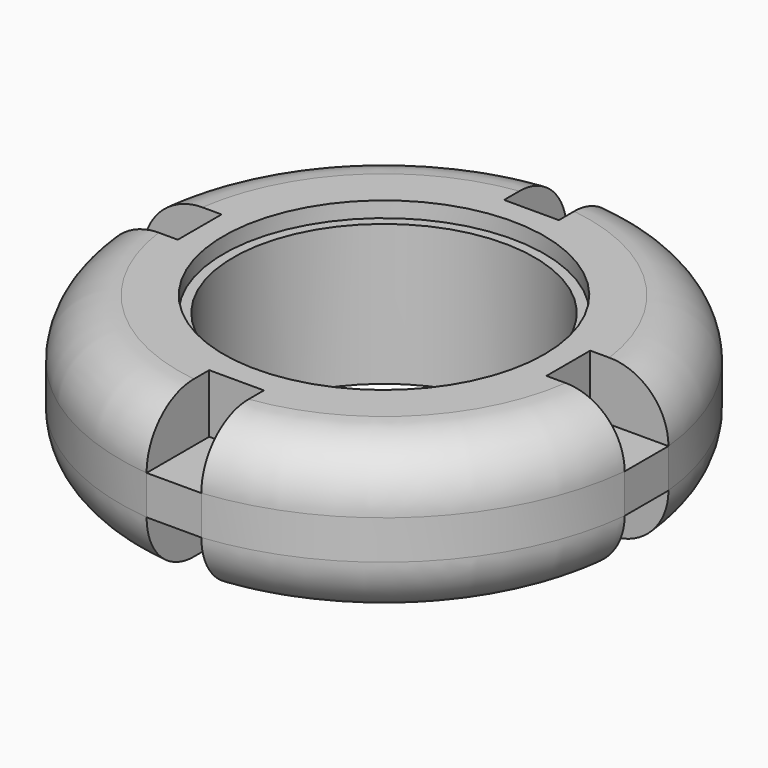
from build123d import *

# Parameters (mm, degrees)
F0_R      = 52.07
F1_DEPTH  = 50.8
F2_R      = 19.05
F5_W      = 25.4
F5_H      = 12.7
F7_DEPTH  = 17.78
F6_W      = 25.4
F6_H      = 12.7
F8_DEPTH  = 17.78
F4_W      = 25.4
F4_H      = 12.7
F9_DEPTH  = 17.78
F3_W      = 25.4
F3_H      = 12.7
F10_DEPTH = 17.78
F0_R_2    = 48.895
F11_DEPTH = 45.72


with BuildPart() as f1:
    # F0 (on Top) → F1 (new body)
    with BuildSketch(Plane.XY):
        with BuildLine():
            Line((59.8627909759, 8.89), (85.2627909759, 8.89))
            ThreePointArc((85.2627909759, 8.89), (60.6167288172, 60.6167288172), (8.89, 85.2627909759))
            Line((8.89, 85.2627909759), (8.89, 59.8627909759))
            Line((8.89, 59.8627909759), (-8.89, 59.8627909759))
            Line((-8.89, 59.8627909759), (-8.89, 85.2627909759))
            ThreePointArc((-8.89, 85.2627909759), (-60.6167288172, 60.6167288172), (-85.2627909759, 8.89))
            Line((-85.2627909759, 8.89), (-59.8627909759, 8.89))
            Line((-59.8627909759, 8.89), (-59.8627909759, -8.89))
            Line((-59.8627909759, -8.89), (-85.2627909759, -8.89))
            ThreePointArc((-85.2627909759, -8.89), (-60.6167288172, -60.6167288172), (-8.89, -85.2627909759))
            Line((-8.89, -85.2627909759), (-8.89, -59.8627909759))
            Line((-8.89, -59.8627909759), (8.89, -59.8627909759))
            Line((8.89, -59.8627909759), (8.89, -85.2627909759))
            ThreePointArc((8.89, -85.2627909759), (60.6167288172, -60.6167288172), (85.2627909759, -8.89))
            Line((85.2627909759, -8.89), (59.8627909759, -8.89))
            Line((59.8627909759, -8.89), (59.8627909759, 8.89))
        make_face()
        Circle(F0_R, mode=Mode.SUBTRACT)
    extrude(amount=F1_DEPTH)

    # F2
    f2_edges = [f1.edges().sort_by_distance(p)[0] for p in [
        (-60.616729, -60.616729, 50.8),
        (60.616729, -60.616729, 50.8),
        (60.616729, 60.616729, 50.8),
        (-60.616729, 60.616729, 50.8),
        (60.616729, -60.616729, 0),
        (60.616729, 60.616729, 0),
        (-60.616729, -60.616729, 0),
        (-60.616729, 60.616729, 0),
    ]]
    fillet(f2_edges, radius=F2_R)

    # F5 (on face) → F7 (join)
    with BuildSketch(Plane(origin=(0, -8.89, 0), x_dir=(-1, 0, 0), z_dir=(0, 1, 0))):
        with Locations((-72.5627909759, 25.4)):
            Rectangle(F5_W, F5_H)
    extrude(amount=F7_DEPTH)

    # F6 (on face) → F8 (join)
    with BuildSketch(Plane(origin=(8.89, 0, 0), x_dir=(0, -1, 0), z_dir=(-1, 0, 0))):
        with Locations((-72.5627909759, 25.4)):
            Rectangle(F6_W, F6_H)
    extrude(amount=F8_DEPTH)

    # F4 (on face) → F9 (join)
    with BuildSketch(Plane.XZ.offset(-8.89)):
        with Locations((-72.5627909759, 25.4)):
            Rectangle(F4_W, F4_H)
    extrude(amount=F9_DEPTH)

    # F3 (on face) → F10 (join)
    with BuildSketch(Plane.YZ.offset(-8.89)):
        with Locations((-72.5627909759, 25.4)):
            Rectangle(F3_W, F3_H)
    extrude(amount=F10_DEPTH)

    # F0 (on Top) → F11 (join)
    with BuildSketch(Plane.XY):
        Circle(F0_R)
        Circle(F0_R_2, mode=Mode.SUBTRACT)
    extrude(amount=F11_DEPTH)


solid = f1.part
